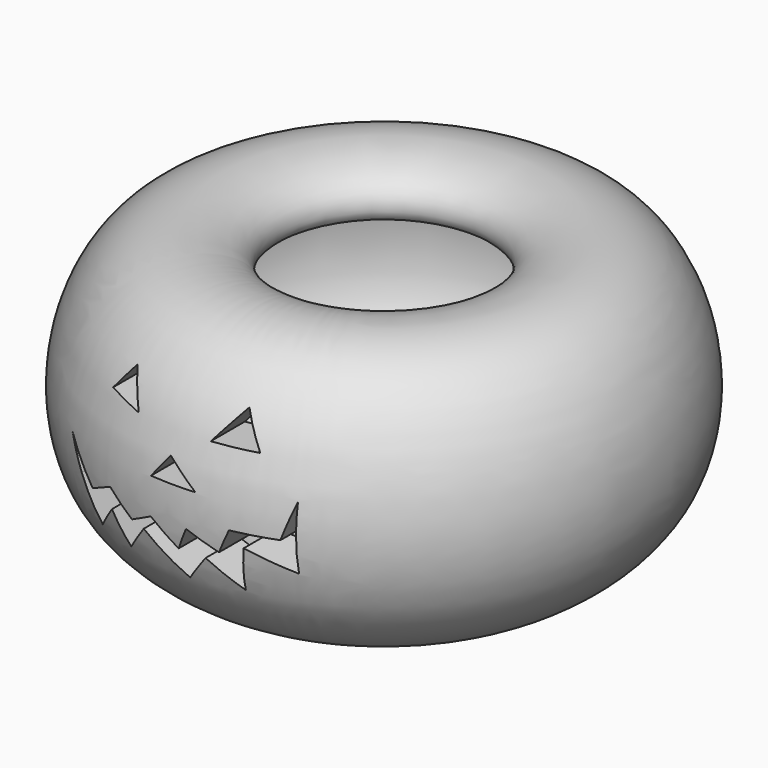
from build123d import *

# Parameters (mm, degrees)
F3_DEPTH = 98.044
F4_W     = 7.5012618909
F4_H     = 17.1979675069


with BuildPart() as f1:
    # F0 (on Front) → F1 (revolve)
    with BuildSketch(Plane.XZ):
        with BuildLine():
            add(Edge.make_bspline(
                [(21.2307181209, 16.291372478), (24.2399529947, 21.3064283461), (54.1721308633, 27.6957204089), (68.1983293464, -37.8141065393), (5.510957125, -55.5599483132), (-0.1197694001, -31.652108788), (0.0052568787, -31.1627025663), (0.0741872653, -30.3500114204), (-0.7929287712, -27.1134972047), (18.0521800825, -48.7544770801), (58.9676449557, -22.0708191316), (39.4090194548, 24.9313479395), (21.8882417215, 5.9092752581), (19.7230948296, 13.7788351217), (21.2307181209, 16.291372478)],
                knots=[0, 0, 0, 0, 0.1027163331, 0.247543199, 0.3911359073, 0.4744414281, 0.4875539594, 0.5066050592, 0.5273738222, 0.6191006994, 0.7475283601, 0.8696101223, 0.9485392325, 1, 1, 1, 1], degree=3))
        make_face()
    revolve(axis=Axis((-3.2262091991, 0, 30.418548733), (0, 0, -1)))

    # F2 (on Front) → F3 (cut)
    with BuildSketch(Plane.XZ):
        Polygon((-13.9730398795, 4.0692813948), (-17.6601385018, 11.0747643069), (-22.0846546135, 5.544123824), align=None)
        Polygon((13.3114761421, 4.0692813948), (8.8869600305, 11.0747643069), (3.3563139596, 4.0692813948), align=None)
        Polygon((1.6971218148, -5.9720779783), (-4.570943608, -0.7239415988), (-8.7142104193, -5.9720779783), align=None)
        Polygon((-32.7772361478, -7.5450710698), (-29.2744946918, -14.1818452372), (-24.4396757334, -23.3679953963), (-19.7284335145, -17.4004237172), (-16.0674179612, -24.3563488299), (-10.9614120744, -17.8887433222), (-1.6665576512, -25.6711546965), (3.3563139596, -19.3088525733), (10.3608527329, -24.8387532712), (11.6522821346, -14.9192645892), (21.4230890134, -18.6063622802), (21.4230890134, -3.6736208692), (18.6577669093, -11.7852337404), (8.8869600305, -11.7852337404), (6.490346671, -17.131522645), (-0.3433762528, -14.0681282145), (-2.6118550357, -19.1285785786), (-8.7142104193, -14.3109281398), (-13.9730398795, -17.0787348851), (-19.7035787016, -12.5546239255), (-25.6047811588, -15.6605219375), align=None)
    extrude(amount=F3_DEPTH, mode=Mode.SUBTRACT)


with BuildPart() as f5:
    # F4 (on Front) → F5 (revolve)
    with BuildSketch(Plane.XZ):
        with Locations((2.1641922067, -19.4554957561)):
            Rectangle(F4_W, F4_H)
    revolve(axis=Axis((-1.5864387387, 0, -19.4554957561), (0, 0, -1)))


solid = Compound([f1.part, f5.part])
